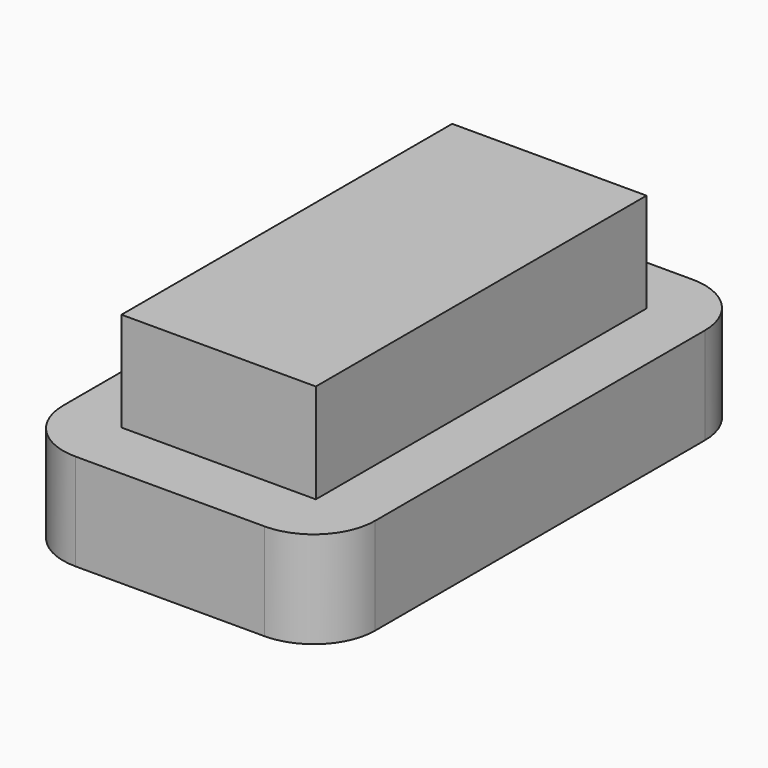
from build123d import *

# Parameters (mm, degrees)
F0_W     = 64.522118
F0_H     = 110.606628
F1_DEPTH = 20
F2_R     = 12.7
F3_W     = 40.194572
F3_H     = 85.488498
F4_DEPTH = 40.548261


with BuildPart() as f1:
    # F0 (on Top) → F1 (new body)
    with BuildSketch(Plane.XY):
        Rectangle(F0_W, F0_H)
    extrude(amount=F1_DEPTH)

    # F2
    f2_edges = [f1.edges().sort_by_distance(p)[0] for p in [
        (-32.261059, 55.303314, 10),
        (-32.261059, -55.303314, 10),
        (32.261059, 55.303314, 10),
        (32.261059, -55.303314, 10),
    ]]
    fillet(f2_edges, radius=F2_R)

    # F3 (on Top) → F4 (join)
    with BuildSketch(Plane.XY):
        Rectangle(F3_W, F3_H)
    extrude(amount=F4_DEPTH)


solid = f1.part
